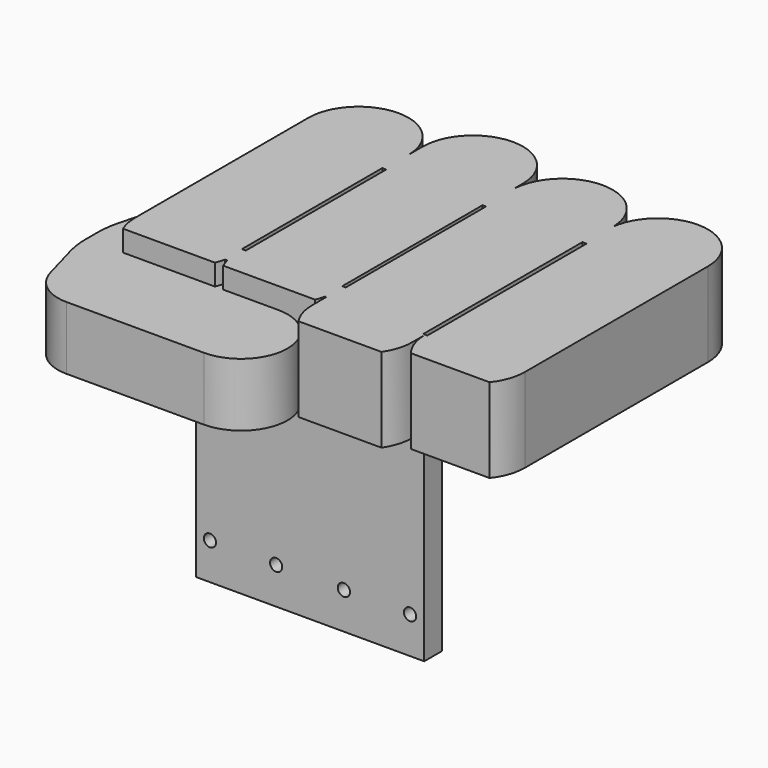
from build123d import *

# Parameters (mm, degrees)
F0_W      = 1.1809540468
F0_H      = 55.4866959378
F0_W_2    = 1.0430663562
F0_H_2    = 55.8827305807
F0_W_3    = 1.2505598919
F0_H_3    = 59.9420672474
F1_DEPTH  = 25.4
F2_DEPTH  = 19.05
F4_R      = 25.4
F5_R      = 12.7
F6_DEPTH  = 61.6204
F7_DEPTH  = 45.466
F8_DEPTH  = 87.0204
F10_DEPTH = 37.285599403


with BuildPart() as f1:
    # F0 (on Top) → F1 (new body)
    with BuildSketch(Plane.XY):
        with BuildLine():
            ThreePointArc((-31.4129105711, -45.2980363816), (-30.4781671858, -42.3561098061), (-30.1620009138, -39.2854883608))
            ThreePointArc((-30.1620009138, -39.2854883608), (-29.8463674498, -42.3560514479), (-28.912179671, -45.2980363816))
            Line((-28.912179671, -45.2980363816), (-12.330923231, -45.2980363816))
            Line((-12.330923231, -45.2980363816), (-1.2493222605, -45.2980363816))
            ThreePointArc((-1.2493222605, -45.2980363816), (-0.3153893091, -42.3572770972), (0.0004989823, -39.2879920805))
            Line((0.0004989823, -39.2879920805), (0, -47.9196608067))
            ThreePointArc((0, -47.9196608067), (0.6558623791, -52.3187849866), (2.5664044493, -56.3352857035))
            Line((2.5664044493, -56.3352857035), (27.5960955507, -56.3352857035))
            ThreePointArc((27.5960955507, -56.3352857035), (29.5066376209, -52.3187849866), (30.1625, -47.9196608067))
            Line((30.1625, -47.9196608067), (30.1656608492, -43.188519241))
            ThreePointArc((30.1656608492, -43.188519241), (30.9988064443, -48.131759315), (33.4061909682, -52.5288326332))
            Line((33.4061909682, -52.5288326332), (57.0876307301, -52.5288326332))
            ThreePointArc((57.0876307301, -52.5288326332), (59.4950152541, -48.131759315), (60.3281608492, -43.188519241))
            Line((60.3281608492, -43.188519241), (60.3281608492, 25.6428197026))
            ThreePointArc((60.3281608492, 25.6428197026), (46.2008131527, 40.6938718904), (30.2863311656, 27.5468042333))
            ThreePointArc((30.2863311656, 27.5468042333), (15.0360783361, 42.4746485662), (0, 27.3310989141))
            Line((0, 27.3310989141), (0, 31.4158573747))
            ThreePointArc((0, 31.4158573747), (-15.0810004563, 46.496857831), (-30.1620009126, 31.4158573747))
            Line((-30.1620009126, 31.4158573747), (-30.1620009127, 26.0546095664))
            ThreePointArc((-30.1620009127, 26.0546095664), (-45.243250861, 41.1358595153), (-60.3245008099, 26.0546095669))
            Line((-60.3245008099, 26.0546095669), (-60.3245008099, 0))
            Line((-60.3245008099, 0), (-60.3245008099, -39.2829846411))
            ThreePointArc((-60.3245008099, -39.2829846411), (-60.0085894761, -42.3548841799), (-59.0735911526, -45.2980363816))
            Line((-59.0735911526, -45.2980363816), (-31.4129105711, -45.2980363816))
        make_face()
        with Locations((-30.1620009133, -10.8462562301)):
            Rectangle(F0_W, F0_H, mode=Mode.SUBTRACT)
        with Locations((0.0002494911, -11.0644246154)):
            Rectangle(F0_W_2, F0_H_2, mode=Mode.SUBTRACT)
        with Locations((30.1857188067, -13.1142732591)):
            Rectangle(F0_W_3, F0_H_3, mode=Mode.SUBTRACT)
    extrude(amount=F1_DEPTH)

    # F0 (on Top) → F2 (join)
    with BuildSketch(Plane.XY):
        with BuildLine():
            ThreePointArc((-28.912179671, -45.2980363816), (-29.8463674498, -42.3560514479), (-30.1620009138, -39.2854883608))
            ThreePointArc((-30.1620009138, -39.2854883608), (-30.4781671858, -42.3561098061), (-31.4129105711, -45.2980363816))
            Line((-31.4129105711, -45.2980363816), (-59.0735911526, -45.2980363816))
            ThreePointArc((-59.0735911526, -45.2980363816), (-60.0085894761, -42.3548841799), (-60.3245008099, -39.2829846411))
            Line((-60.3245008099, -39.2829846411), (-60.3245008099, 0))
            Line((-60.3245008099, 0), (-70.1869130135, -37.5586524606))
            Line((-70.1869130135, -37.5586524606), (-70.1869130135, -49.070879817))
            Line((-70.1869130135, -49.070879817), (-63.4611696021, -73.2465684414))
            Line((-63.4611696021, -73.2465684414), (-12.330923231, -73.2465684414))
            ThreePointArc((-12.330923231, -73.2465684414), (1.6433427989, -59.2723024115), (-12.330923231, -45.2980363816))
            Line((-12.330923231, -45.2980363816), (-28.912179671, -45.2980363816))
        make_face()
    extrude(amount=F2_DEPTH)

    # F4
    f4_edges = [f1.edges().sort_by_distance(p)[0] for p in [
        (-70.186913, -37.558652, 9.525),
        (-70.186913, -49.07088, 9.525),
    ]]
    fillet(f4_edges, radius=F4_R)

    # F5
    f5_edges = [f1.edges().sort_by_distance(p)[0] for p in [
        (-63.46117, -73.246568, 9.525),
    ]]
    fillet(f5_edges, radius=F5_R)

    # F3 (on face) → F6 (join)
    with BuildSketch(Plane.XY):
        with BuildLine():
            Line((-30.7524779367, -35.9619690384), (-39.3256613186, -35.9619690384))
            Line((-39.3256613186, -35.9619690384), (-39.3256613186, -42.5913690384))
            Line((-39.3256613186, -42.5913690384), (-30.529074842, -42.5913690384))
            ThreePointArc((-30.529074842, -42.5913690384), (-30.2541193355, -40.9485795087), (-30.1620009138, -39.2854883608))
            ThreePointArc((-30.1620009138, -39.2854883608), (-30.0701620308, -40.9485637633), (-29.7954894935, -42.5913690384))
            Line((-29.7954894935, -42.5913690384), (-0.366012438, -42.5913690384))
            ThreePointArc((-0.366012438, -42.5913690384), (-0.0914778965, -40.9498079941), (0.0004989823, -39.2879920805))
            Line((0.0004989823, -39.2879920805), (0.0003080196, -42.5913690384))
            Line((0.0003080196, -42.5913690384), (29.4575386814, -42.5913690384))
            Line((29.4575386814, -42.5913690384), (29.4575386814, -35.9619690384))
            Line((29.4575386814, -35.9619690384), (0.5217826692, -35.9619690384))
            Line((0.5217826692, -35.9619690384), (0.5217826692, -39.0057899058))
            Line((0.5217826692, -39.0057899058), (-0.5212836869, -39.0057899058))
            Line((-0.5212836869, -39.0057899058), (-0.5212836869, -35.9619690384))
            Line((-0.5212836869, -35.9619690384), (-29.5715238899, -35.9619690384))
            Line((-29.5715238899, -35.9619690384), (-29.5715238899, -38.5896041989))
            Line((-29.5715238899, -38.5896041989), (-30.7524779367, -38.5896041989))
            Line((-30.7524779367, -38.5896041989), (-30.7524779367, -35.9619690384))
        make_face()
    extrude(amount=-F6_DEPTH)

    # F7 (add): a face of the model
    f7_faces = [f1.faces().sort_by_distance(p)[0] for p in [
        (-39.3256613186, -39.2766690384, -30.8102),
    ]]
    extrude(f7_faces, amount=-F7_DEPTH)

    # F8 (add, through all): a face of the model
    f8_faces = [f1.faces().sort_by_distance(p)[0] for p in [
        (-4.9340613186, -39.2766690384, -61.6204),
    ]]
    extrude(f8_faces, amount=-F8_DEPTH)

    # F9 (on face) → F10 (cut, through all)
    with BuildSketch(Plane(origin=(0, -35.9619690384, 0), x_dir=(-1, 0, 0), z_dir=(0, 1, 0))):
        with BuildLine():
            ThreePointArc((-23.3615386814, -50.546), (-25.2030386814, -48.7045), (-27.0445386814, -50.546))
            Line((-27.0445386814, -50.546), (-23.3615386814, -50.546))
        make_face()
        with BuildLine():
            Line((-23.3615386814, -50.546), (-27.0445386814, -50.546))
            ThreePointArc((-27.0445386814, -50.546), (-25.2030386814, -52.3875), (-23.3615386814, -50.546))
        make_face()
        with BuildLine():
            Line((-7.1055386814, -50.546), (-3.4225386814, -50.546))
            ThreePointArc((-3.4225386814, -50.546), (-5.2640386814, -48.7045), (-7.1055386814, -50.546))
        make_face()
        with BuildLine():
            ThreePointArc((-7.1055386814, -50.546), (-5.2640386814, -52.3875), (-3.4225386814, -50.546))
            Line((-3.4225386814, -50.546), (-7.1055386814, -50.546))
        make_face()
        with BuildLine():
            Line((13.2906613186, -50.546), (16.9736613186, -50.546))
            ThreePointArc((16.9736613186, -50.546), (15.1321613186, -48.7045), (13.2906613186, -50.546))
        make_face()
        with BuildLine():
            ThreePointArc((13.2906613186, -50.546), (15.1321613186, -52.3875), (16.9736613186, -50.546))
            Line((16.9736613186, -50.546), (13.2906613186, -50.546))
        make_face()
        with BuildLine():
            Line((33.2296613186, -50.546), (36.9126613186, -50.546))
            ThreePointArc((36.9126613186, -50.546), (35.0711613186, -48.7045), (33.2296613186, -50.546))
        make_face()
        with BuildLine():
            ThreePointArc((33.2296613186, -50.546), (35.0711613186, -52.3875), (36.9126613186, -50.546))
            Line((36.9126613186, -50.546), (33.2296613186, -50.546))
        make_face()
    extrude(amount=-F10_DEPTH, mode=Mode.SUBTRACT)


solid = f1.part
